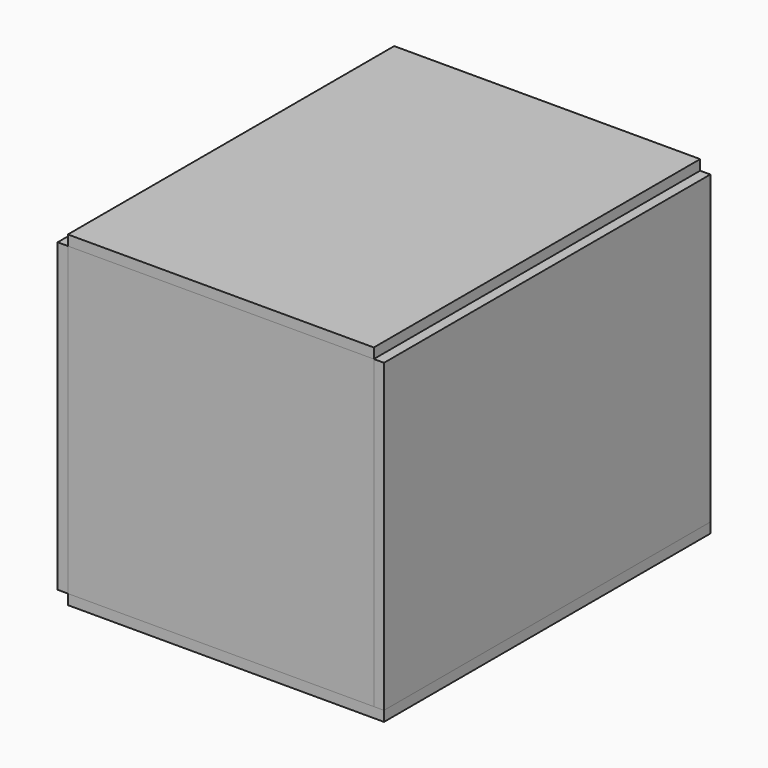
from build123d import *

# Parameters (mm, degrees)
F0_W      = 400
F0_H      = 300
F1_DEPTH  = 10
F2_W      = 300
F2_H      = 300
F3_DEPTH  = 10
F7_W      = 300
F7_H      = 400
F8_DEPTH  = 10
F9_W      = 310
F9_H      = 400
F10_DEPTH = 10


with BuildPart() as f1:
    # F0 (on Right) → F1 (new body)
    with BuildSketch(Plane.YZ):
        Rectangle(F0_W, F0_H)
    extrude(amount=F1_DEPTH)


with BuildPart() as f3:
    # F2 (on face) → F3 (new body)
    with BuildSketch(Plane.XZ.offset(200)):
        with Locations((-150, 0)):
            Rectangle(F2_W, F2_H)
    extrude(amount=-F3_DEPTH)


with BuildPart() as f4_1:
    # F4: instance of F3
    add(f3.part.mirror(Plane.XZ))


with BuildPart() as f6_1:
    # F6: instance of F1
    add(f1.part.mirror(Plane(origin=(-150, 0, 0), x_dir=(0, 1, 0), z_dir=(-1, 0, 0))))


with BuildPart() as f8:
    # F7 (on face) → F8 (new body)
    with BuildSketch(Plane.XY.offset(150)):
        with Locations((-150, 0)):
            Rectangle(F7_W, F7_H)
    extrude(amount=F8_DEPTH)


with BuildPart() as f10:
    # F9 (on face) → F10 (new body)
    with BuildSketch(Plane(origin=(0, 0, -150), x_dir=(1, 0, 0), z_dir=(0, 0, -1))):
        with Locations((-145, 0)):
            Rectangle(F9_W, F9_H)
    extrude(amount=F10_DEPTH)


solid = Compound([f1.part, f3.part, f4_1.part, f6_1.part, f8.part, f10.part])
